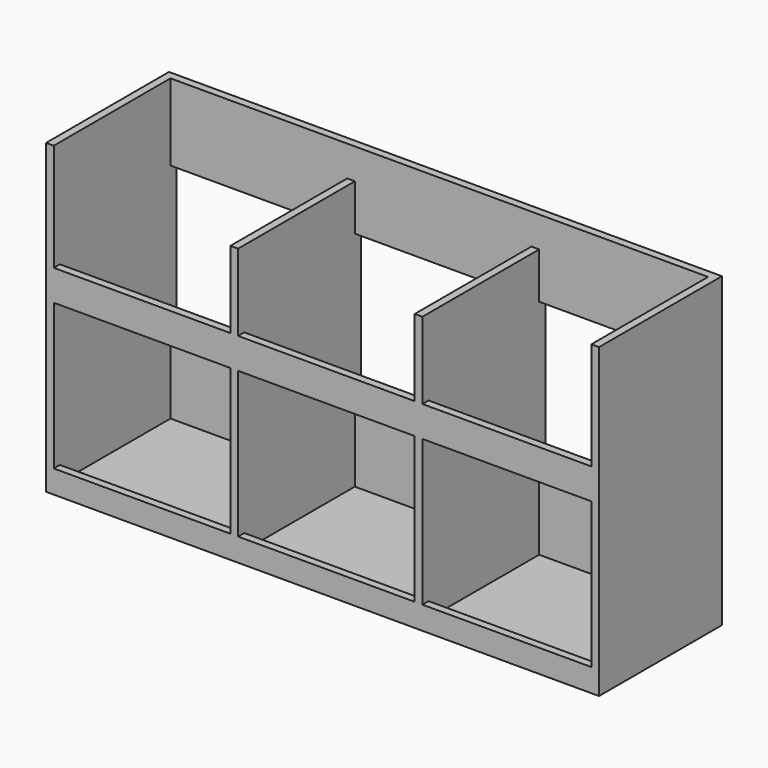
from build123d import *

# Parameters (mm, degrees)
BOX005_W     = 175
BOX005_H     = 2.5
BOX005_DEPTH = 50
BOX001_W     = 175
BOX001_H     = 47.5
BOX001_DEPTH = 97.5
BOX_W        = 180
BOX_H        = 50
BOX_DEPTH    = 100
BOX002_W     = 2.5
BOX002_H     = 50
BOX002_DEPTH = 87.5
BOX003_W     = 175
BOX003_H     = 2.5
BOX003_DEPTH = 10
BOX004_W     = 175
BOX004_H     = 2.5
BOX004_DEPTH = 5
BOX006_W     = 2.5
BOX006_H     = 50
BOX006_DEPTH = 87.5
BOX007_W     = 2.5
BOX007_H     = 50
BOX007_DEPTH = 87.5


with BuildPart() as back_cutout:
    # Box005 → Box005 (new body)
    with BuildSketch(Plane(origin=(2.5, 47.5, 25), x_dir=(1, 0, 0), z_dir=(0, 0, 1))):
        with Locations((87.5, 1.25)):
            Rectangle(BOX005_W, BOX005_H)
    extrude(amount=BOX005_DEPTH)


with BuildPart() as shell_cutout:
    # Box001 → Box001 (new body)
    with BuildSketch(Plane(origin=(2.5, 0, 2.5), x_dir=(1, 0, 0), z_dir=(0, 0, 1))):
        with Locations((87.5, 23.75)):
            Rectangle(BOX001_W, BOX001_H)
    extrude(amount=BOX001_DEPTH)


with BuildPart() as outer_shell:
    # Box → Box (new body)
    with BuildSketch(Plane.XY):
        with Locations((90, 25)):
            Rectangle(BOX_W, BOX_H)
    extrude(amount=BOX_DEPTH)

    # Cut: cut Shell Cutout
    add(shell_cutout.part, mode=Mode.SUBTRACT)

    # Cut001: cut Back Cutout
    add(back_cutout.part, mode=Mode.SUBTRACT)


with BuildPart() as center_divider:
    # Box002 → Box002 (new body)
    with BuildSketch(Plane(origin=(60, 0, 2.5), x_dir=(1, 0, 0), z_dir=(0, 0, 1))):
        with Locations((1.25, 25)):
            Rectangle(BOX002_W, BOX002_H)
    extrude(amount=BOX002_DEPTH)


with BuildPart() as front_bar:
    # Box003 → Box003 (new body)
    with BuildSketch(Plane(origin=(2.5, 0, 55), x_dir=(1, 0, 0), z_dir=(0, 0, 1))):
        with Locations((87.5, 1.25)):
            Rectangle(BOX003_W, BOX003_H)
    extrude(amount=BOX003_DEPTH)


with BuildPart() as bottom_lip:
    # Box004 → Box004 (new body)
    with BuildSketch(Plane(origin=(2.5, 0, 2.5), x_dir=(1, 0, 0), z_dir=(0, 0, 1))):
        with Locations((87.5, 1.25)):
            Rectangle(BOX004_W, BOX004_H)
    extrude(amount=BOX004_DEPTH)


with BuildPart() as right_divider:
    # Box006 → Box006 (new body)
    with BuildSketch(Plane(origin=(120, 0, 2.5), x_dir=(1, 0, 0), z_dir=(0, 0, 1))):
        with Locations((1.25, 25)):
            Rectangle(BOX006_W, BOX006_H)
    extrude(amount=BOX006_DEPTH)


with BuildPart() as fusion:
    # Box007 → Box007 (new body)
    with BuildSketch(Plane(origin=(60, 0, 2.5), x_dir=(1, 0, 0), z_dir=(0, 0, 1))):
        with Locations((1.25, 25)):
            Rectangle(BOX007_W, BOX007_H)
    extrude(amount=BOX007_DEPTH)

    # Fusion: union Outer Shell, Center Divider, Front Bar, Bottom Lip, Right Divider
    add(outer_shell.part)
    add(center_divider.part)
    add(front_bar.part)
    add(bottom_lip.part)
    add(right_divider.part)


solid = fusion.part
